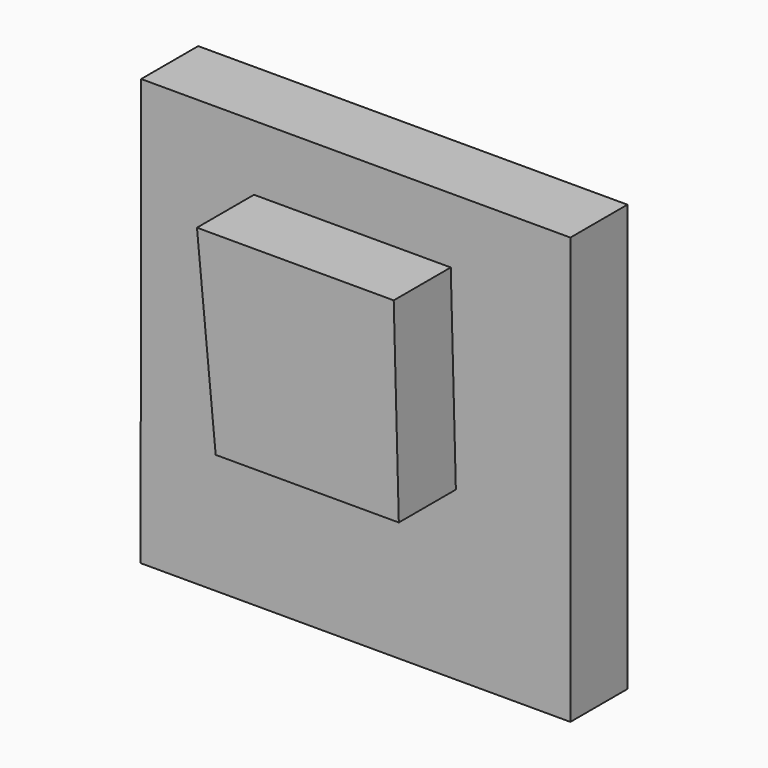
from build123d import *

# Parameters (mm, degrees)
F1_DEPTH = 25.4
F3_DEPTH = 25.4


with BuildPart() as f1:
    # F0 (on Front) → F1 (new body)
    with BuildSketch(Plane.XZ):
        Polygon((0, 0), (-76.373182, 75.969093), (-76.575227, -75.969093), align=None)
        Polygon((76.575227, 75.969093), (-76.373182, 75.969093), (0, 0), align=None)
        Polygon((76.575227, -75.969093), (76.575227, 75.969093), (0, 0), align=None)
        Polygon((0, 0), (-76.575227, -75.969093), (76.575227, -75.969093), align=None)
    extrude(amount=F1_DEPTH)

    # F2 (on face) → F3 (join)
    with BuildSketch(Plane.XZ.offset(25.4)):
        Polygon((33.943638, 52.733865), (-36.166139, 52.733865), (-29.498637, -16.365683), (35.762049, -16.365683), align=None)
    extrude(amount=F3_DEPTH)


solid = f1.part
